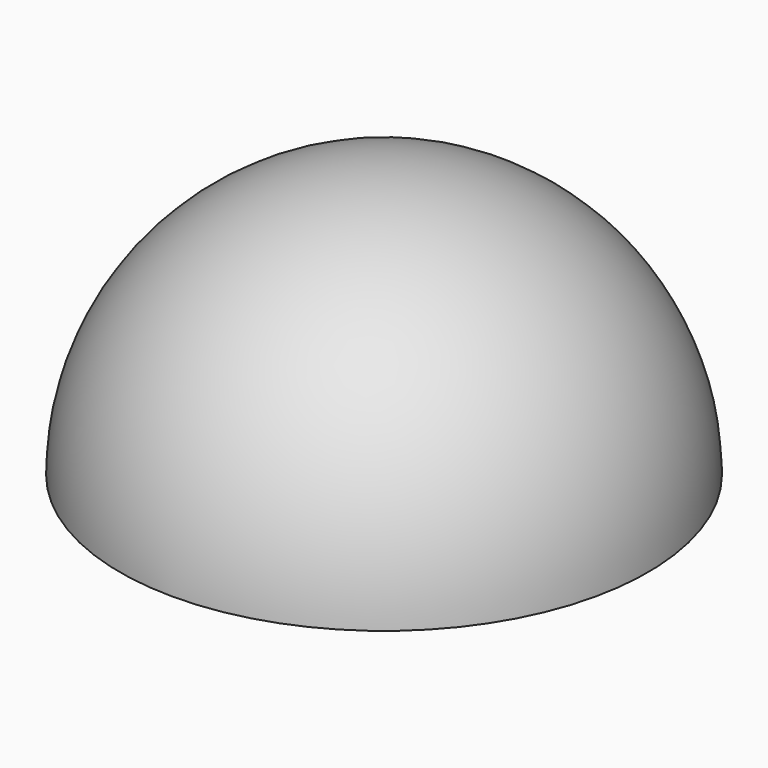
from build123d import *

# Parameters (mm, degrees)
F2_W     = 29.3561853468
F2_H     = 76.5563324094
F3_DEPTH = 50.8
F4_W     = 76.2685239315
F4_H     = 38.5659746826
F5_DEPTH = 25.4


with BuildPart() as f1:
    # F0 (on Top) → F1 (revolve)
    with BuildSketch(Plane.XY):
        with BuildLine():
            Line((0, 19.05), (0, -19.05))
            ThreePointArc((0, -19.05), (19.05, 0), (0, 19.05))
        make_face()
    revolve(axis=Axis((0, 0, 0), (0, -1, 0)))

    # F2 (on Top) → F3 (cut)
    with BuildSketch(Plane.XY):
        with Locations((14.6780926734, -3.4536682069)):
            Rectangle(F2_W, F2_H)
    extrude(amount=-F3_DEPTH, mode=Mode.SUBTRACT)

    # F4 (on Right) → F5 (cut)
    with BuildSketch(Plane.YZ):
        with Locations((3.5975724459, -19.2829873413)):
            Rectangle(F4_W, F4_H)
    extrude(amount=-F5_DEPTH, mode=Mode.SUBTRACT)


solid = f1.part
